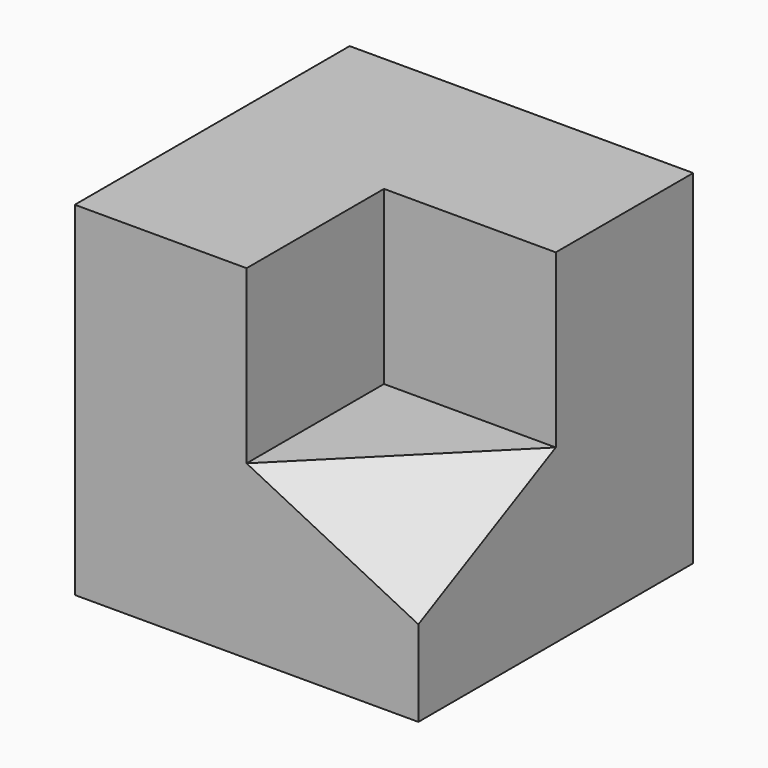
from build123d import *

# Parameters (mm, degrees)
F0_W     = 40
F0_H     = 40
F1_DEPTH = 40
F2_W     = 20
F2_H     = 20
F3_DEPTH = 20
F7_DEPTH = 24.4958974278


with BuildPart() as f1:
    # F0 (on Front) → F1 (new body)
    with BuildSketch(Plane.XZ):
        with Locations((20, 20)):
            Rectangle(F0_W, F0_H)
    extrude(amount=F1_DEPTH)

    # F2 (on face) → F3 (cut)
    with BuildSketch(Plane.XZ.offset(40)):
        with Locations((30, 30)):
            Rectangle(F2_W, F2_H)
    extrude(amount=-F3_DEPTH, mode=Mode.SUBTRACT)

    # F6 (on 3pt) → F7 (cut, through all)
    with BuildSketch(Plane(origin=(16.6666666667, -16.6666666667, 33.3333333333), x_dir=(0.9128709292, 0.1825741858, -0.3651483717), z_dir=(-0.4082482905, 0.4082482905, -0.8164965809))):
        Polygon((3.6514837167, 26.83281573), (25.5603860169, 8.94427191), (25.5603860169, 31.304951685), align=None)
    extrude(amount=-F7_DEPTH, mode=Mode.SUBTRACT)


solid = f1.part
